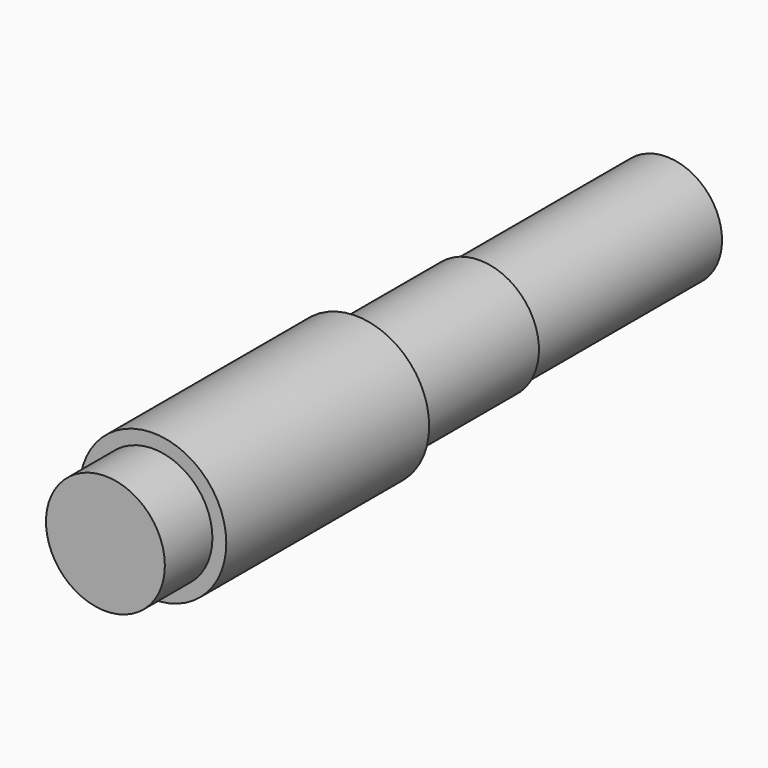
from build123d import *

# Parameters (mm, degrees)
F0_R     = 15
F1_DEPTH = 15
F2_R     = 18.5
F3_DEPTH = 64
F4_R     = 15
F5_DEPTH = 39
F6_R     = 14
F7_DEPTH = 59


with BuildPart() as f1:
    # F0 (on Front) → F1 (new body)
    with BuildSketch(Plane.XZ):
        Circle(F0_R)
    extrude(amount=F1_DEPTH)

    # F2 (on Front) → F3 (join)
    with BuildSketch(Plane.XZ):
        Circle(F2_R)
    extrude(amount=-F3_DEPTH)

    # F4 (on face) → F5 (join)
    with BuildSketch(Plane(origin=(0, 64, 0), x_dir=(-1, 0, 0), z_dir=(0, 1, 0))):
        Circle(F4_R)
    extrude(amount=F5_DEPTH)

    # F6 (on face) → F7 (join)
    with BuildSketch(Plane(origin=(0, 103, 0), x_dir=(-1, 0, 0), z_dir=(0, 1, 0))):
        Circle(F6_R)
    extrude(amount=F7_DEPTH)


solid = f1.part
